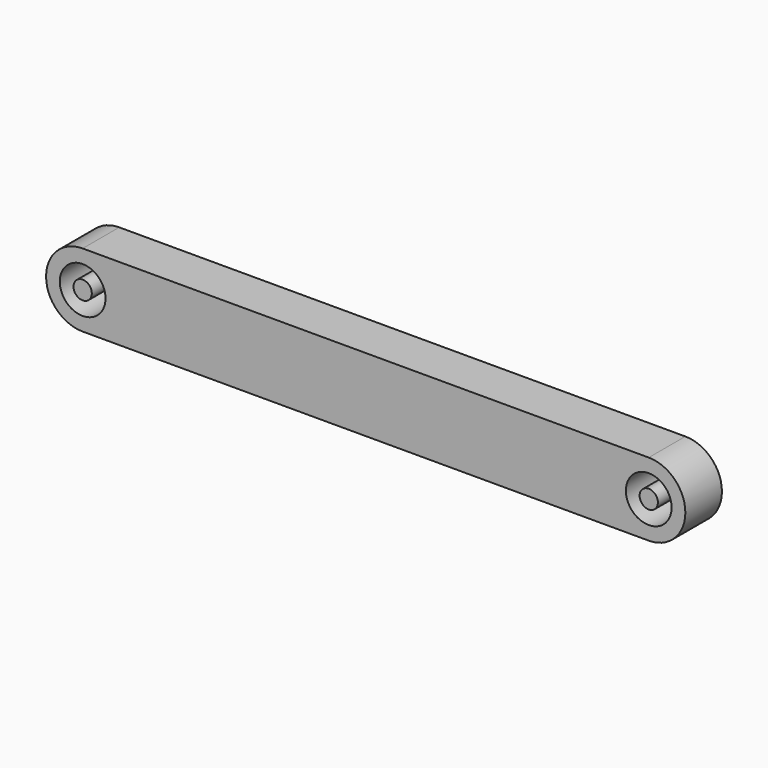
from build123d import *

# Parameters (mm, degrees)
F0_R     = 2.5
F0_R_2   = 1
F1_DEPTH = 5


with BuildPart() as f1:
    # F0 (on Front) → F1 (new body)
    with BuildSketch(Plane.XZ):
        with BuildLine():
            Line((-61.9, -4), (0, -4))
            ThreePointArc((0, -4), (4, 0), (0, 4))
            Line((0, 4), (-61.9, 4))
            ThreePointArc((-61.9, 4), (-65.9, 0), (-61.9, -4))
        make_face()
        with Locations((-61.9, 0)):
            Circle(F0_R, mode=Mode.SUBTRACT)
        Circle(F0_R, mode=Mode.SUBTRACT)
        with Locations((-61.9, 0)):
            Circle(F0_R_2)
        Circle(F0_R_2)
    extrude(amount=F1_DEPTH)


solid = f1.part
